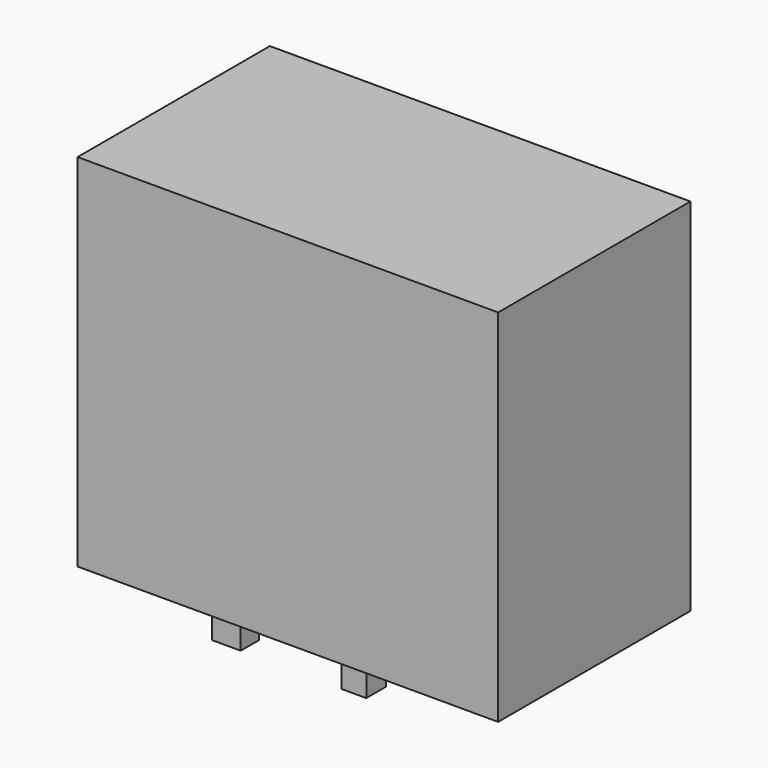
from build123d import *

# Parameters (mm, degrees)
F0_W     = 88.9
F0_H     = 50.8
F1_DEPTH = 76.2
F2_R     = 16.335339
F3_DEPTH = 19.05
F4_W     = 4.892699
F4_H     = 4.604891
F4_W_2   = 4.317085
F4_H_2   = 4.029282
F5_DEPTH = 12.7
F6_W     = 6.043921
F6_H     = 4.892695
F6_W_2   = 5.180505
F6_H_2   = 5.1805
F7_DEPTH = 6.35


with BuildPart() as f1:
    # F0 (on Top) → F1 (new body)
    with BuildSketch(Plane.XY):
        with Locations((-4.012393, -24.22007)):
            Rectangle(F0_W, F0_H)
    extrude(amount=F1_DEPTH)

    # F2 (on Top) → F3 (cut)
    with BuildSketch(Plane.XY):
        with Locations((-4.748795, -26.145704)):
            Circle(F2_R)
    extrude(amount=F3_DEPTH, mode=Mode.SUBTRACT)

    # F4 (on Top) → F5 (join)
    with BuildSketch(Plane.XY):
        with Locations((-21.873237, -44.178185)):
            Rectangle(F4_W, F4_H)
        with Locations((9.785395, -44.178184)):
            Rectangle(F4_W_2, F4_H_2)
    extrude(amount=F5_DEPTH)

    # F6 (on Top) → F7 (join)
    with BuildSketch(Plane.XY):
        with Locations((-19.282984, -44.322086)):
            Rectangle(F6_W, F6_H)
        with Locations((7.914659, -44.465989)):
            Rectangle(F6_W_2, F6_H_2)
    extrude(amount=-F7_DEPTH)


solid = f1.part
